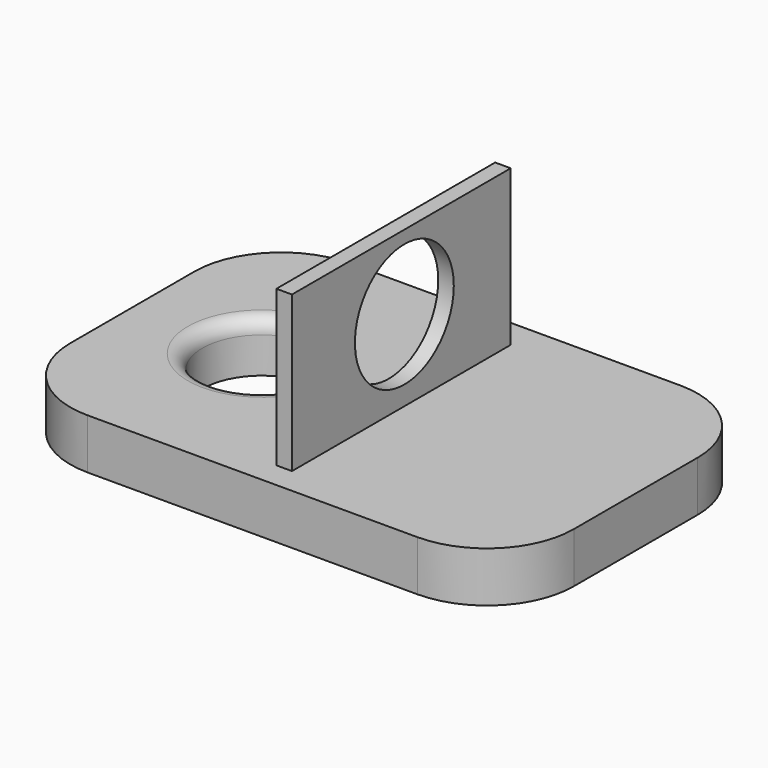
from build123d import *

# Parameters (mm, degrees)
F0_R     = 12.59962
F1_DEPTH = 10.668
F2_R     = 3.066051
F3_W     = 57.973618
F3_H     = 34.38655
F3_R     = 13.105167
F4_DEPTH = 3.302


with BuildPart() as f1:
    # F0 (on Top) → F1 (new body)
    with BuildSketch(Plane.XY):
        with BuildLine():
            Line((34.315242, 34.36793), (-35.594401, 34.36793))
            ThreePointArc((-35.594401, 34.36793), (-48.613899, 28.975077), (-54.006752, 15.955579))
            Line((-54.006752, 15.955579), (-54.006752, -16.882243))
            ThreePointArc((-54.006752, -16.882243), (-48.613897, -29.901747), (-35.594393, -35.294602))
            Line((-35.594393, -35.294602), (34.315242, -35.294602))
            ThreePointArc((34.315242, -35.294602), (47.334745, -29.901747), (52.7276, -16.882243))
            Line((52.7276, -16.882243), (52.7276, 15.955572))
            ThreePointArc((52.7276, 15.955572), (47.334745, 28.975075), (34.315242, 34.36793))
        make_face()
        with Locations((-26.912455, 0)):
            Circle(F0_R, mode=Mode.SUBTRACT)
    extrude(amount=F1_DEPTH)

    # F2
    f2_edges = [f1.edges().sort_by_distance(p)[0] for p in [
        (-39.512074, 0, 10.668),
    ]]
    fillet(f2_edges, radius=F2_R)

    # F3 (on Right) → F4 (join)
    with BuildSketch(Plane.YZ):
        with Locations((-0.793372, 26.436993)):
            Rectangle(F3_W, F3_H)
        with Locations((0, 27.82166)):
            Circle(F3_R, mode=Mode.SUBTRACT)
    extrude(amount=F4_DEPTH)


solid = f1.part
